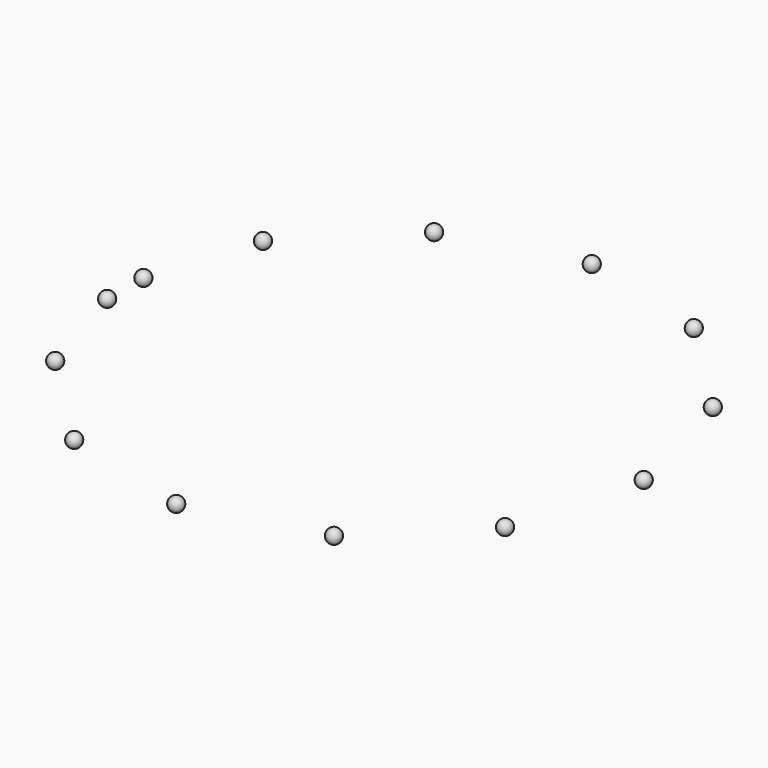
from build123d import *

# Parameters (mm, degrees)
SPHERE003_PLACEMENT_ANGLE = 5
SPHERE004_PLACEMENT_ANGLE = 30
ARRAY002_COUNT            = 11
ARRAY002_ANGLE            = 300
SPHERE002_PLACEMENT_ANGLE = 5


with BuildPart() as obj1:
    # Sphere003 → Sphere003 (revolve)
    with BuildSketch(Plane.XZ):
        with BuildLine():
            ThreePointArc((0, -0.35), (0.35, 0), (0, 0.35))
            Line((0, 0.35), (0, -0.35))
        make_face()
    revolve(axis=Axis((0, 0, 0), (0, 0, 1)))


with BuildPart() as obj1_1:
    # Sphere003 placement: moved
    add(obj1.part.moved(Location((-12.7015, 1.11124, 1))).rotate(Axis((-12.7015, 1.11124, 1), (0, 0, -1)), SPHERE003_PLACEMENT_ANGLE))


with BuildPart() as array002:
    # Sphere004 → Sphere004 (revolve)
    with BuildSketch(Plane.XZ):
        with BuildLine():
            ThreePointArc((0, -0.35), (0.35, 0), (0, 0.35))
            Line((0, 0.35), (0, -0.35))
        make_face()
    revolve(axis=Axis((0, 0, 0), (0, 0, 1)))


with BuildPart() as array002_1:
    # Sphere004 placement: moved
    add(array002.part.moved(Location((-11.0418, -6.375, 1))).rotate(Axis((-11.0418, -6.375, 1), (0, 0, 1)), SPHERE004_PLACEMENT_ANGLE))

    # Array002: Array002 ×11 about axis
    array002_axis = Axis((0, 0, 0), (0, 0, 1))


with BuildPart() as array002_2:
    add(array002_1.part)
    for i in range(1, ARRAY002_COUNT):
        add(array002_1.part.rotate(array002_axis, i * ARRAY002_ANGLE / (ARRAY002_COUNT - 1)))


with BuildPart() as f_13_dots:
    # Sphere002 → Sphere002 (revolve)
    with BuildSketch(Plane.XZ):
        with BuildLine():
            ThreePointArc((0, -0.35), (0.35, 0), (0, 0.35))
            Line((0, 0.35), (0, -0.35))
        make_face()
    revolve(axis=Axis((0, 0, 0), (0, 0, 1)))


with BuildPart() as f_13_dots_1:
    # Sphere002 placement: moved
    add(f_13_dots.part.moved(Location((-12.7015, -1.11124, 1))).rotate(Axis((-12.7015, -1.11124, 1), (0, 0, 1)), SPHERE002_PLACEMENT_ANGLE))

    # Fusion: union obj1, Array002
    add(obj1_1.part)
    add(array002_2.part)


solid = f_13_dots_1.part
